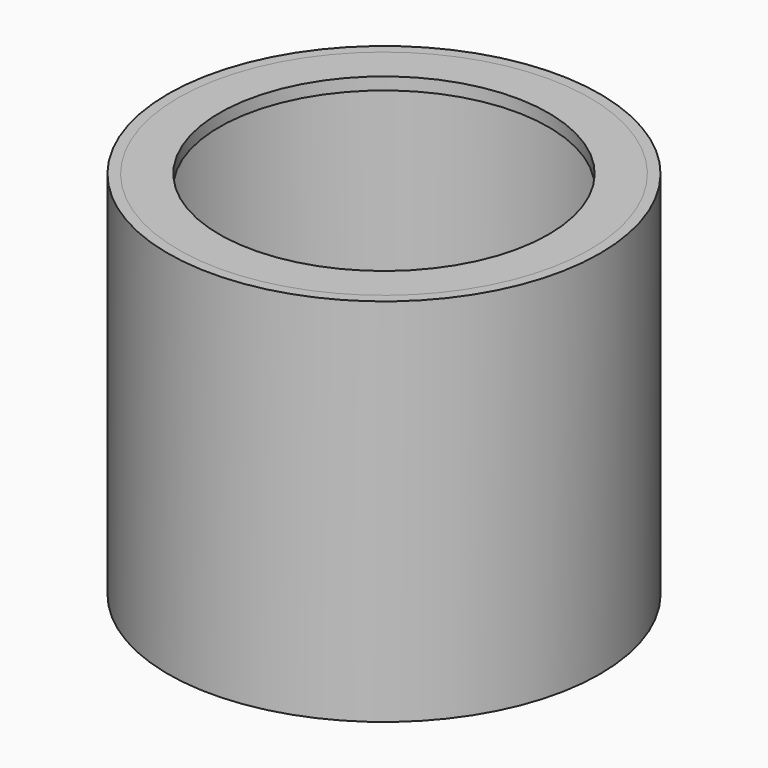
from build123d import *

# Parameters (mm, degrees)
F0_R     = 52.5
F0_R_2   = 50
F1_DEPTH = 90
F2_R     = 50
F2_R_2   = 40
F3_DEPTH = 3


with BuildPart() as f1:
    # F0 (on Top) → F1 (new body)
    with BuildSketch(Plane.XY):
        Circle(F0_R)
        Circle(F0_R_2, mode=Mode.SUBTRACT)
    extrude(amount=-F1_DEPTH)


with BuildPart() as f3:
    # F2 (on Top) → F3 (new body)
    with BuildSketch(Plane.XY):
        Circle(F2_R)
        Circle(F2_R_2, mode=Mode.SUBTRACT)
    extrude(amount=-F3_DEPTH)


solid = Compound([f1.part, f3.part])
